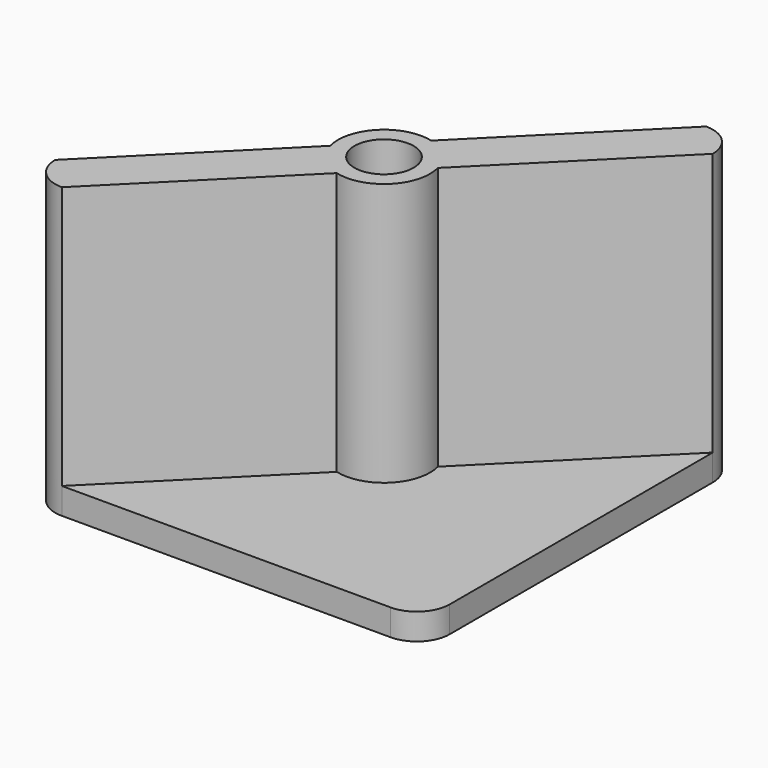
from build123d import *

# Parameters (mm, degrees)
F1_DEPTH = 4
F2_R     = 4.5
F3_DEPTH = 40
F4_DEPTH = 25


with BuildPart() as f1:
    # F0 (on Top) → F1 (new body)
    with BuildSketch(Plane.XY):
        with BuildLine():
            Line((-25, -30), (25, -30))
            ThreePointArc((25, -30), (28.535534, -28.535534), (30, -25))
            Line((30, -25), (30, 25))
            ThreePointArc((30, 25), (28.535534, 28.535534), (25, 30))
            Line((25, 30), (-25, 30))
            ThreePointArc((-25, 30), (-28.535534, 28.535534), (-30, 25))
            Line((-30, 25), (-30, -25))
            ThreePointArc((-30, -25), (-28.535534, -28.535534), (-25, -30))
        make_face()
        with BuildLine():
            Line((-25, -30), (25, -30))
            ThreePointArc((25, -30), (28.535534, -28.535534), (30, -25))
            Line((30, -25), (30, 25))
            ThreePointArc((30, 25), (28.535534, 28.535534), (25, 30))
            Line((25, 30), (-25, 30))
            ThreePointArc((-25, 30), (-28.535534, 28.535534), (-30, 25))
            Line((-30, 25), (-30, -25))
            ThreePointArc((-30, -25), (-28.535534, -28.535534), (-25, -30))
        make_face()
    extrude(amount=F1_DEPTH)

    # F2 (on face) → F3 (join)
    with BuildSketch(Plane.XY.offset(4)):
        with BuildLine():
            Line((25, 30), (1.772002, 6.772002))
            ThreePointArc((1.772002, 6.772002), (-4.949747, 4.949747), (-6.772002, -1.772002))
            Line((-6.772002, -1.772002), (-30, -25))
            ThreePointArc((-30, -25), (-28.535534, -28.535534), (-25, -30))
            Line((-25, -30), (-1.772002, -6.772002))
            ThreePointArc((-1.772002, -6.772002), (4.949747, -4.949747), (6.772002, 1.772002))
            Line((6.772002, 1.772002), (30, 25))
            ThreePointArc((30, 25), (28.535534, 28.535534), (25, 30))
        make_face()
        Circle(F2_R, mode=Mode.SUBTRACT)
    extrude(amount=F3_DEPTH)

    # F2 (on face) → F4 (cut)
    with BuildSketch(Plane.XY.offset(4)):
        Circle(F2_R)
    extrude(amount=-F4_DEPTH, mode=Mode.SUBTRACT)


solid = f1.part
